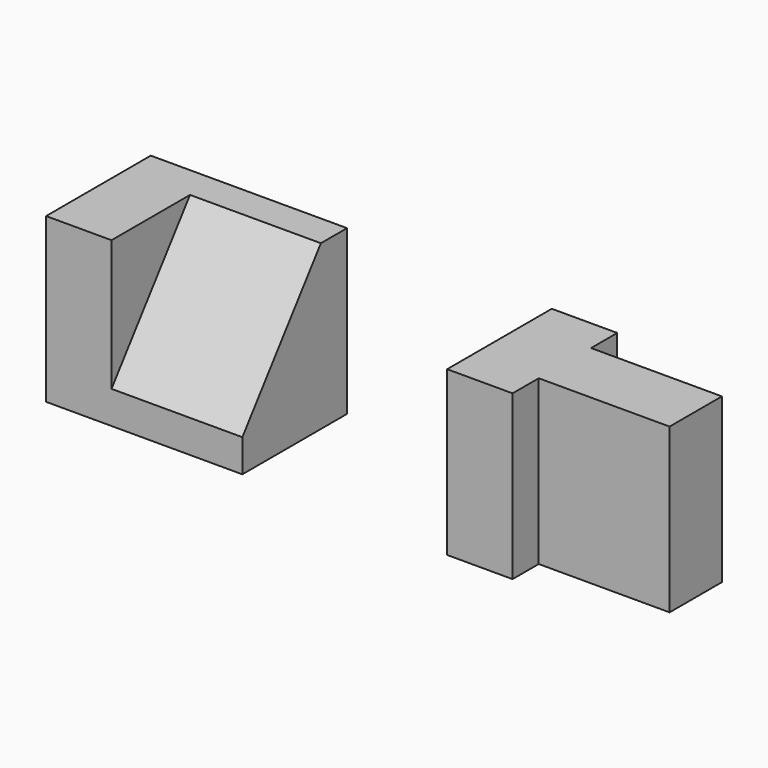
from build123d import *

# Parameters (mm, degrees)
F0_W     = 38.1
F0_H     = 31.75
F1_DEPTH = 25.4
F3_DEPTH = 25.4
F4_W     = 38.1
F4_H     = 31.75
F5_DEPTH = 25.4
F6_W     = 25.4
F6_H     = 31.75
F7_DEPTH = 6.35
F8_W     = 25.4
F8_H     = 31.75
F9_DEPTH = 6.35


with BuildPart() as f1:
    # F0 (on Front) → F1 (new body)
    with BuildSketch(Plane.XZ):
        with Locations((-45.338315, 19.005952)):
            Rectangle(F0_W, F0_H)
    extrude(amount=F1_DEPTH)

    # F2 (on face) → F3 (cut)
    with BuildSketch(Plane.YZ.offset(-26.288315)):
        Polygon((-25.4, 9.480952), (-6.35, 34.880952), (-25.4, 34.880952), align=None)
    extrude(amount=-F3_DEPTH, mode=Mode.SUBTRACT)


with BuildPart() as f5:
    # F4 (on Front) → F5 (new body)
    with BuildSketch(Plane.XZ):
        with Locations((32.512898, 18.153821)):
            Rectangle(F4_W, F4_H)
    extrude(amount=F5_DEPTH)

    # F6 (on face) → F7 (cut)
    with BuildSketch(Plane.XZ.offset(25.4)):
        with Locations((38.862898, 18.153821)):
            Rectangle(F6_W, F6_H)
    extrude(amount=-F7_DEPTH, mode=Mode.SUBTRACT)

    # F8 (on face) → F9 (cut)
    with BuildSketch(Plane(origin=(0, 0, 0), x_dir=(-1, 0, 0), z_dir=(0, 1, 0))):
        with Locations((-38.862898, 18.153821)):
            Rectangle(F8_W, F8_H)
    extrude(amount=-F9_DEPTH, mode=Mode.SUBTRACT)


solid = Compound([f1.part, f5.part])
